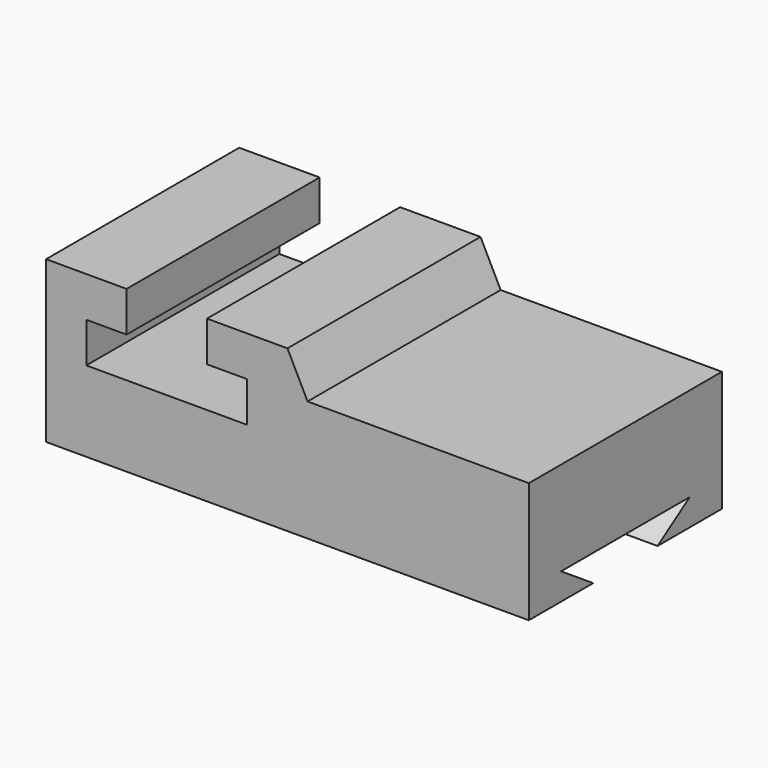
from build123d import *

# Parameters (mm, degrees)
F1_DEPTH = 76.2
F4_DEPTH = 187.96


with BuildPart() as f1:
    # F0 (on Front) → F1 (new body)
    with BuildSketch(Plane.XZ):
        Polygon((0, 50.8), (0, 0), (152.4, 0), (152.4, 38.1), (82.55, 38.1), (76.2, 50.8), (50.8, 50.8), (50.8, 38.1), (63.5, 38.1), (63.5, 25.4), (12.7, 25.4), (12.7, 38.1), (25.4, 38.1), (25.4, 50.8), align=None)
    extrude(amount=F1_DEPTH)

    # F3 (on offset) → F4 (cut)
    with BuildSketch(Plane(origin=(-25.4, 0, 0), x_dir=(0, -1, 0), z_dir=(-1, 0, 0))):
        Polygon((63.5, 8.429470472), (12.7, 8.429470472), (25.4, 0), (50.8, 0), align=None)
    extrude(amount=-F4_DEPTH, mode=Mode.SUBTRACT)


solid = f1.part
